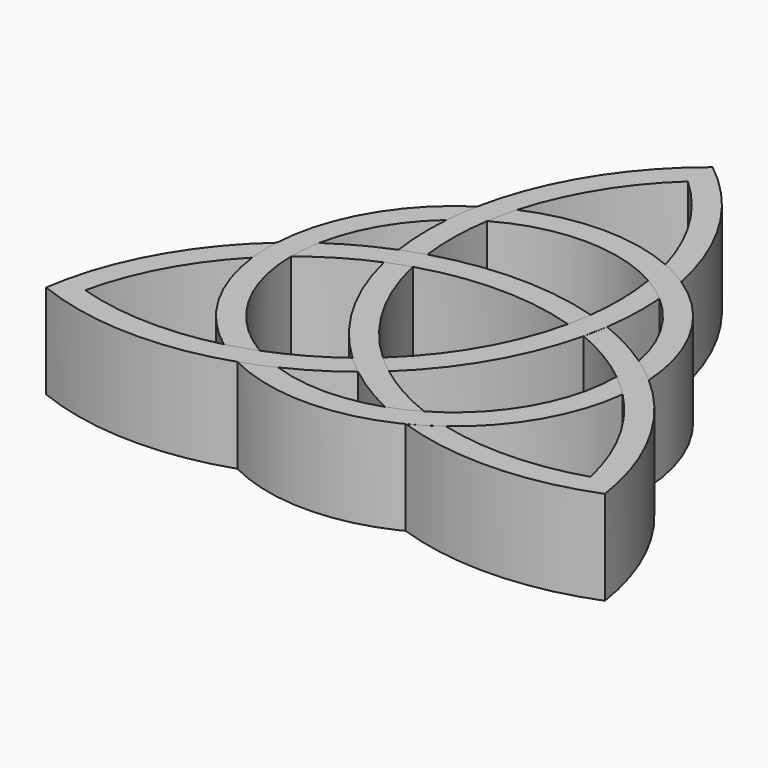
from build123d import *

# Parameters (mm, degrees)
F1_DEPTH = 25.4
F2_DEPTH = 25.4
F3_DEPTH = 25.4
F4_DEPTH = 25.4
F5_DEPTH = 25.4
F6_DEPTH = 25.4
F7_DEPTH = 25.4
F8_DEPTH = 25.4
F9_DEPTH = 25.4


with BuildPart() as f1:
    # F0 (on Top) → F1 (new body)
    with BuildSketch(Plane.XY):
        with BuildLine():
            ThreePointArc((0, 87.0226686738), (-17.7541746022, 67.0007496498), (-27.4874547758, 42.0738321855))
            ThreePointArc((-27.4874547758, 42.0738321855), (-28.2274989742, 37.6657729847), (-28.7076930336, 33.2218934859))
            ThreePointArc((-28.7076930336, 33.2218934859), (-28.8984315039, 24.7183376484), (-28.1398313513, 16.2465392056))
            ThreePointArc((-28.1398313513, 16.2465392056), (-25.1044220257, 17.3792312111), (-22.0235880171, 18.3818092703))
            ThreePointArc((-22.0235880171, 18.3818092703), (-22.5836977464, 28.2753433236), (-21.7374417892, 38.1485185894))
            ThreePointArc((-21.7374417892, 38.1485185894), (-20.9851816903, 42.1524893376), (-20.0006519478, 46.1057637014))
            ThreePointArc((-20.0006519478, 46.1057637014), (-12.2736801117, 63.7909795557), (0, 78.6849290011))
            ThreePointArc((0, 78.6849290011), (12.2736801117, 63.7909795557), (20.0006519478, 46.1057637014))
            ThreePointArc((20.0006519478, 46.1057637014), (23.829481488, 44.248427507), (27.4874547758, 42.0738321855))
            ThreePointArc((27.4874547758, 42.0738321855), (17.7541746022, 67.0007496498), (0, 87.0226686738))
        make_face()
    extrude(amount=F1_DEPTH)


with BuildPart() as f2:
    # F0 (on Top) → F2 (new body)
    with BuildSketch(Plane.XY):
        with BuildLine():
            ThreePointArc((-4.907319787, -28.2638913404), (-2.4986447142, -30.4306828271), (0, -32.4930784113))
            ThreePointArc((0, -32.4930784113), (6.9574925909, -37.3859446361), (14.4171572038, -41.4725381941))
            ThreePointArc((14.4171572038, -41.4725381941), (18.3800442243, -39.8748018229), (22.1688653205, -37.8994360974))
            ThreePointArc((22.1688653205, -37.8994360974), (13.1953167457, -33.6957276216), (4.907319787, -28.2638913404))
            ThreePointArc((4.907319787, -28.2638913404), (2.4065546981, -26.2658782251), (0, -24.1553387386))
            ThreePointArc((0, -24.1553387386), (-13.2375723861, -7.6427159771), (-20.9191369859, 12.0776693752))
            ThreePointArc((-20.9191369859, 12.0776693752), (-23.950195146, 11.0488016143), (-26.9309078055, 9.8820820761))
            ThreePointArc((-26.9309078055, 9.8820820761), (-18.7368337054, -10.81771598), (-4.907319787, -28.2638913404))
        make_face()
    extrude(amount=F2_DEPTH)


with BuildPart() as f3:
    # F0 (on Top) → F3 (new body)
    with BuildSketch(Plane.XY):
        with BuildLine():
            ThreePointArc((29.9284366524, -40.3739545298), (26.4055215546, -42.7611500811), (22.6932801193, -44.841750214))
            ThreePointArc((22.6932801193, -44.841750214), (49.1472639682, -48.8759410537), (75.3638417766, -43.5113343369))
            ThreePointArc((75.3638417766, -43.5113343369), (66.9014385705, -18.1248085961), (50.1807348951, 2.7679180285))
            ThreePointArc((50.1807348951, 2.7679180285), (46.733265745, 5.6128447047), (43.1248502374, 8.2506447082))
            ThreePointArc((43.1248502374, 8.2506447082), (35.8559240948, 12.6676069877), (28.1398313513, 16.2465392056))
            ThreePointArc((28.1398313513, 16.2465392056), (27.6030667405, 13.051451619), (26.9309078055, 9.8820820761))
            ThreePointArc((26.9309078055, 9.8820820761), (35.7790144928, 5.4203843047), (43.9063071097, -0.2490824843))
            ThreePointArc((43.9063071097, -0.2490824843), (46.9977174447, -2.9025442143), (49.9290886011, -5.731809164))
            ThreePointArc((49.9290886011, -5.731809164), (61.3814488873, -21.2661709979), (68.1431474157, -39.3424644987))
            ThreePointArc((68.1431474157, -39.3424644987), (49.1077687747, -42.5248085524), (29.9284366524, -40.3739545298))
        make_face()
    extrude(amount=F3_DEPTH)


with BuildPart() as f4:
    # F0 (on Top) → F4 (new body)
    with BuildSketch(Plane.XY):
        with BuildLine():
            ThreePointArc((-22.0235880171, 18.3818092703), (-25.1044220257, 17.3792312111), (-28.1398313513, 16.2465392056))
            ThreePointArc((-28.1398313513, 16.2465392056), (-35.8559240948, 12.6676069877), (-43.1248502374, 8.2506447082))
            ThreePointArc((-43.1248502374, 8.2506447082), (-43.7226134613, 4.0198156944), (-43.9063071097, -0.2490824843))
            ThreePointArc((-43.9063071097, -0.2490824843), (-35.7790144928, 5.4203843047), (-26.9309078055, 9.8820820761))
            ThreePointArc((-26.9309078055, 9.8820820761), (-23.950195146, 11.0488016143), (-20.9191369859, 12.0776693752))
            ThreePointArc((-20.9191369859, 12.0776693752), (0, 15.2854319654), (20.9191369859, 12.0776693752))
            ThreePointArc((20.9191369859, 12.0776693752), (21.5436404471, 15.2170766197), (22.0235880171, 18.3818092703))
            ThreePointArc((22.0235880171, 18.3818092703), (0, 21.6354319654), (-22.0235880171, 18.3818092703))
        make_face()
    extrude(amount=F4_DEPTH)


with BuildPart() as f5:
    # F0 (on Top) → F5 (new body)
    with BuildSketch(Plane.XY):
        with BuildLine():
            ThreePointArc((-50.1807348951, 2.7679180285), (-66.9014385705, -18.1248085961), (-75.3638417766, -43.5113343369))
            ThreePointArc((-75.3638417766, -43.5113343369), (-49.1472639682, -48.8759410537), (-22.6932801193, -44.841750214))
            ThreePointArc((-22.6932801193, -44.841750214), (-18.5057667708, -43.2786176893), (-14.4171572038, -41.4725381941))
            ThreePointArc((-14.4171572038, -41.4725381941), (-6.9574925909, -37.3859446361), (0, -32.4930784113))
            ThreePointArc((0, -32.4930784113), (-2.4986447142, -30.4306828271), (-4.907319787, -28.2638913404))
            ThreePointArc((-4.907319787, -28.2638913404), (-13.1953167457, -33.6957276216), (-22.1688653205, -37.8994360974))
            ThreePointArc((-22.1688653205, -37.8994360974), (-26.012535754, -39.2499451156), (-29.9284366524, -40.3739545298))
            ThreePointArc((-29.9284366524, -40.3739545298), (-49.1077687747, -42.5248085524), (-68.1431474157, -39.3424644987))
            ThreePointArc((-68.1431474157, -39.3424644987), (-61.3814488873, -21.2661709979), (-49.9290886011, -5.731809164))
            ThreePointArc((-49.9290886011, -5.731809164), (-50.2350030427, -1.487277422), (-50.1807348951, 2.7679180285))
        make_face()
    extrude(amount=F5_DEPTH)


with BuildPart() as f6:
    # F0 (on Top) → F6 (new body)
    with BuildSketch(Plane.XY):
        with BuildLine():
            ThreePointArc((0, -24.1553387386), (2.4065546981, -26.2658782251), (4.907319787, -28.2638913404))
            ThreePointArc((4.907319787, -28.2638913404), (18.7368337054, -10.81771598), (26.9309078055, 9.8820820761))
            ThreePointArc((26.9309078055, 9.8820820761), (27.6030667405, 13.051451619), (28.1398313513, 16.2465392056))
            ThreePointArc((28.1398313513, 16.2465392056), (28.8984315039, 24.7183376484), (28.7076930336, 33.2218934859))
            ThreePointArc((28.7076930336, 33.2218934859), (25.3425692373, 35.8549861323), (21.7374417892, 38.1485185894))
            ThreePointArc((21.7374417892, 38.1485185894), (22.5836977464, 28.2753433236), (22.0235880171, 18.3818092703))
            ThreePointArc((22.0235880171, 18.3818092703), (21.5436404471, 15.2170766197), (20.9191369859, 12.0776693752))
            ThreePointArc((20.9191369859, 12.0776693752), (13.2375723861, -7.6427159771), (0, -24.1553387386))
        make_face()
    extrude(amount=F6_DEPTH)


with BuildPart() as f7:
    # F0 (on Top) → F7 (new body)
    with BuildSketch(Plane.XY):
        with BuildLine():
            ThreePointArc((43.1248502374, 8.2506447082), (46.733265745, 5.6128447047), (50.1807348951, 2.7679180285))
            ThreePointArc((50.1807348951, 2.7679180285), (43.5238514337, 25.1285073414), (27.4874547758, 42.0738321855))
            ThreePointArc((27.4874547758, 42.0738321855), (23.829481488, 44.248427507), (20.0006519478, 46.1057637014))
            ThreePointArc((20.0006519478, 46.1057637014), (0, 50.2570146828), (-20.0006519478, 46.1057637014))
            ThreePointArc((-20.0006519478, 46.1057637014), (-20.9851816903, 42.1524893376), (-21.7374417892, 38.1485185894))
            ThreePointArc((-21.7374417892, 38.1485185894), (0, 43.9070136322), (21.7374417892, 38.1485185894))
            ThreePointArc((21.7374417892, 38.1485185894), (25.3425692373, 35.8549861323), (28.7076930336, 33.2218934859))
            ThreePointArc((28.7076930336, 33.2218934859), (38.0245892098, 21.9535068161), (43.1248502374, 8.2506447082))
        make_face()
    extrude(amount=F7_DEPTH)


with BuildPart() as f8:
    # F0 (on Top) → F8 (new body)
    with BuildSketch(Plane.XY):
        with BuildLine():
            ThreePointArc((-27.4874547758, 42.0738321855), (-43.5238514337, 25.1285073414), (-50.1807348951, 2.7679180285))
            ThreePointArc((-50.1807348951, 2.7679180285), (-50.2350030427, -1.487277422), (-49.9290886011, -5.731809164))
            ThreePointArc((-49.9290886011, -5.731809164), (-43.5238514356, -25.1285073381), (-29.9284366524, -40.3739545298))
            ThreePointArc((-29.9284366524, -40.3739545298), (-26.012535754, -39.2499451156), (-22.1688653205, -37.8994360974))
            ThreePointArc((-22.1688653205, -37.8994360974), (-38.0245892117, -21.9535068128), (-43.9063071097, -0.2490824843))
            ThreePointArc((-43.9063071097, -0.2490824843), (-43.7226134613, 4.0198156944), (-43.1248502374, 8.2506447082))
            ThreePointArc((-43.1248502374, 8.2506447082), (-38.0245892098, 21.9535068161), (-28.7076930336, 33.2218934859))
            ThreePointArc((-28.7076930336, 33.2218934859), (-28.2274989742, 37.6657729847), (-27.4874547758, 42.0738321855))
        make_face()
    extrude(amount=F8_DEPTH)


with BuildPart() as f9:
    # F0 (on Top) → F9 (new body)
    with BuildSketch(Plane.XY):
        with BuildLine():
            ThreePointArc((-14.4171572038, -41.4725381941), (-18.5057667708, -43.2786176893), (-22.6932801193, -44.841750214))
            ThreePointArc((-22.6932801193, -44.841750214), (0, -50.2570146828), (22.6932801193, -44.841750214))
            ThreePointArc((22.6932801193, -44.841750214), (26.4055215546, -42.7611500811), (29.9284366524, -40.3739545298))
            ThreePointArc((29.9284366524, -40.3739545298), (43.5238514356, -25.1285073381), (49.9290886011, -5.731809164))
            ThreePointArc((49.9290886011, -5.731809164), (46.9977174447, -2.9025442143), (43.9063071097, -0.2490824843))
            ThreePointArc((43.9063071097, -0.2490824843), (38.0245892117, -21.9535068128), (22.1688653205, -37.8994360974))
            ThreePointArc((22.1688653205, -37.8994360974), (18.3800442243, -39.8748018229), (14.4171572038, -41.4725381941))
            ThreePointArc((14.4171572038, -41.4725381941), (0, -43.9070136322), (-14.4171572038, -41.4725381941))
        make_face()
    extrude(amount=F9_DEPTH)


solid = Compound([f1.part, f2.part, f3.part, f4.part, f5.part, f6.part, f7.part, f8.part, f9.part])
